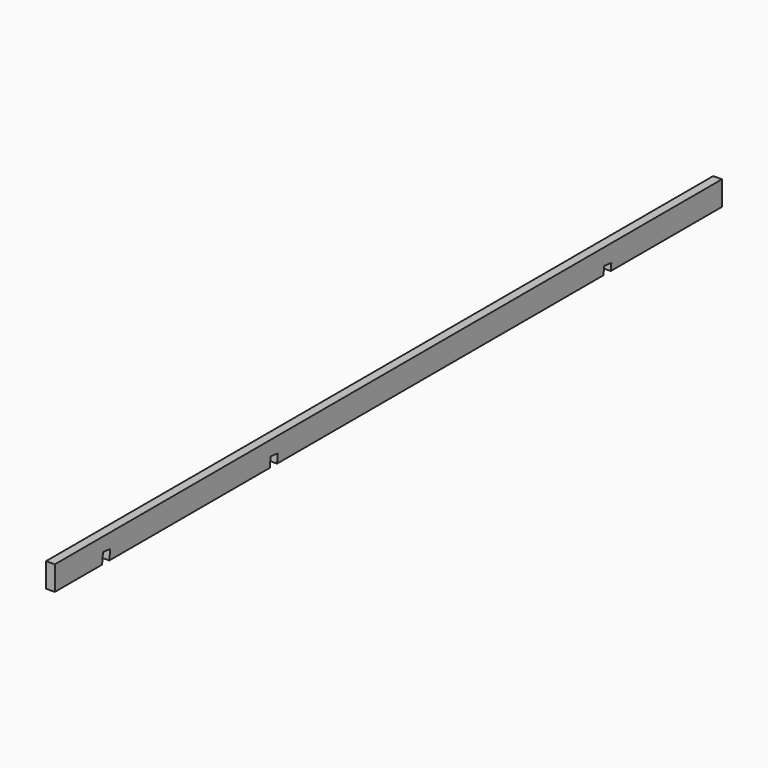
from build123d import *

# Parameters (mm, degrees)
F0_W     = 63
F0_H     = 175
F1_DEPTH = 3000
F3_DEPTH = 63


with BuildPart() as f1:
    # F0 (on Front) → F1 (new body, symmetric)
    with BuildSketch(Plane.XZ):
        Rectangle(F0_W, F0_H)
    extrude(amount=F1_DEPTH, both=True)

    # F2 (on face) → F3 (cut, through all)
    with BuildSketch(Plane.YZ.offset(31.5)):
        Polygon((1934.643902725, -87.5), (2000, -87.5), (2005.2409093466, -37.5), (1940.5950664007, -30.7239399497), align=None)
        Polygon((-1066.7091798263, -87.5), (-1001.3530825513, -87.5), (-994.7692323273, -24.6879020552), (-1059.4150752732, -17.9118420048), align=None)
        Polygon((-2574.926809249, -87.5), (-2509.570711974, -87.5), (-2502.2334388888, -17.5), (-2566.8792818347, -10.7239399497), align=None)
    extrude(amount=-F3_DEPTH, mode=Mode.SUBTRACT)


solid = f1.part
